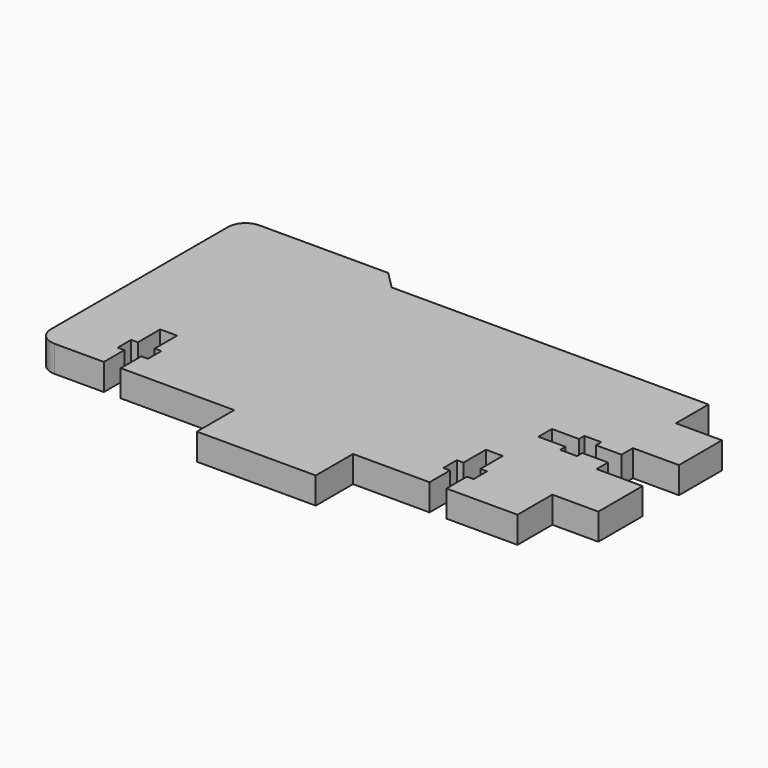
from build123d import *

# Parameters (mm, degrees)
F1_DEPTH = 4.56


with BuildPart() as f1:
    # F0 (on Top) → F1 (new body)
    with BuildSketch(Plane.XY):
        with BuildLine():
            Line((-19.48, 0), (0, 0))
            Line((0, 0), (0, -8))
            Line((0, -8), (20.4, -8))
            Line((20.4, -8), (20.4, 0))
            Line((20.4, 0), (33.54, 0))
            Line((33.54, 0), (33.54, 4.4))
            Line((33.54, 4.4), (32.39, 4.4))
            Line((32.39, 4.4), (32.39, 7.3))
            Line((32.39, 7.3), (33.54, 7.3))
            Line((33.54, 7.3), (33.54, 12.1))
            Line((33.54, 12.1), (36.44, 12.1))
            Line((36.44, 12.1), (36.44, 7.3))
            Line((36.44, 7.3), (37.59, 7.3))
            Line((37.59, 7.3), (37.59, 4.4))
            Line((37.59, 4.4), (36.44, 4.4))
            Line((36.44, 4.4), (36.44, 0))
            Line((36.44, 0), (48.64, 0))
            Line((48.64, 0), (48.64, 7.48))
            Line((48.64, 7.48), (56.54, 7.48))
            Line((56.54, 7.48), (56.54, 16.98))
            Line((56.54, 16.98), (48.64, 16.98))
            Line((48.64, 16.98), (48.64, 19.43))
            Line((48.64, 19.43), (44.24, 19.43))
            Line((44.24, 19.43), (44.24, 18.28))
            Line((44.24, 18.28), (41.34, 18.28))
            Line((41.34, 18.28), (41.34, 19.43))
            Line((41.34, 19.43), (36.68, 19.43))
            Line((36.68, 19.43), (36.68, 22.33))
            Line((36.68, 22.33), (41.34, 22.33))
            Line((41.34, 22.33), (41.34, 23.48))
            Line((41.34, 23.48), (44.24, 23.48))
            Line((44.24, 23.48), (44.24, 22.33))
            Line((44.24, 22.33), (48.64, 22.33))
            Line((48.64, 22.33), (48.64, 24.78))
            Line((48.64, 24.78), (56.54, 24.78))
            Line((56.54, 24.78), (56.54, 34))
            Line((56.54, 34), (48.64, 34))
            Line((48.64, 34), (48.64, 41))
            Line((48.64, 41), (-5.76, 41))
            Line((-5.76, 41), (-8.76, 44))
            Line((-8.76, 44), (-30.86, 44))
            ThreePointArc((-30.86, 44), (-32.98132, 43.12132), (-33.86, 41))
            Line((-33.86, 41), (-33.86, 3))
            ThreePointArc((-33.86, 3), (-32.98132, 0.87868), (-30.86, 0))
            Line((-30.86, 0), (-22.38, 0))
            Line((-22.38, 0), (-22.38, 4.4))
            Line((-22.38, 4.4), (-23.53, 4.4))
            Line((-23.53, 4.4), (-23.53, 7.3))
            Line((-23.53, 7.3), (-22.38, 7.3))
            Line((-22.38, 7.3), (-22.38, 12.1))
            Line((-22.38, 12.1), (-19.48, 12.1))
            Line((-19.48, 12.1), (-19.48, 7.3))
            Line((-19.48, 7.3), (-18.33, 7.3))
            Line((-18.33, 7.3), (-18.33, 4.4))
            Line((-18.33, 4.4), (-19.48, 4.4))
            Line((-19.48, 4.4), (-19.48, 0))
        make_face()
    extrude(amount=F1_DEPTH)


solid = f1.part
